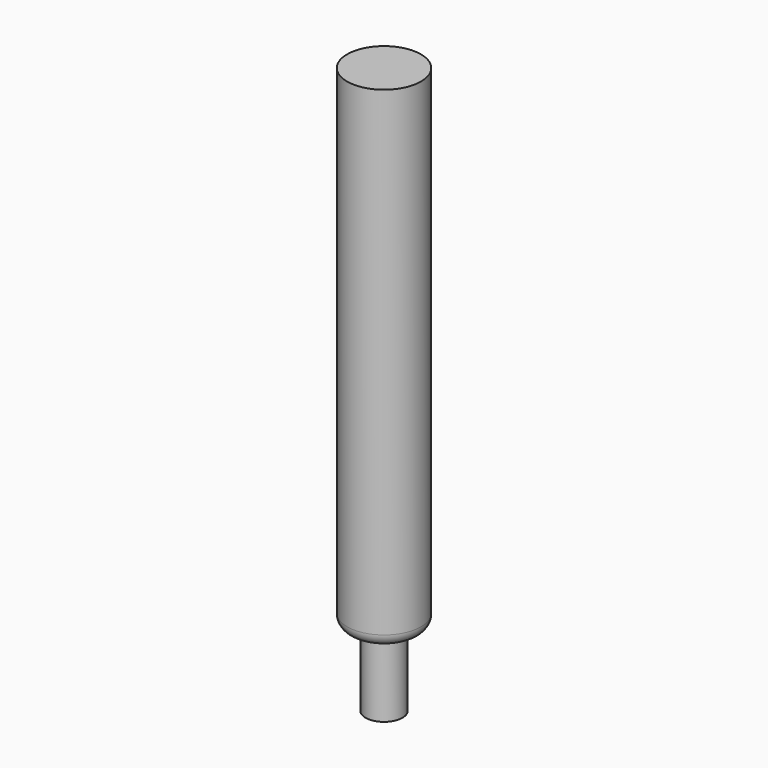
from build123d import *

# Parameters (mm, degrees)
SKETCH_R     = 3
PAD_DEPTH    = 12
SKETCH001_R  = 6
PAD001_DEPTH = 80
FILLET_R     = 2


with BuildPart() as part:
    # Sketch → Pad (new body)
    with BuildSketch(Plane.XY):
        Circle(SKETCH_R)
        Polygon((2.2, 0), (1.1, 1.905256), (-1.1, 1.905256), (-2.2, 0), (-1.1, -1.905256), (1.1, -1.905256), align=None, mode=Mode.SUBTRACT)
    extrude(amount=PAD_DEPTH)

    # Sketch001 (on Face9 of Pad) → Pad001 (join)
    with BuildSketch(Plane.XY.offset(12)):
        Circle(SKETCH001_R)
    extrude(amount=PAD001_DEPTH)

    # Fillet
    fillet_edges = [part.edges().sort_by_distance(p)[0] for p in [
        (-6, 0, 12),
    ]]
    fillet(fillet_edges, radius=FILLET_R)


solid = part.part
